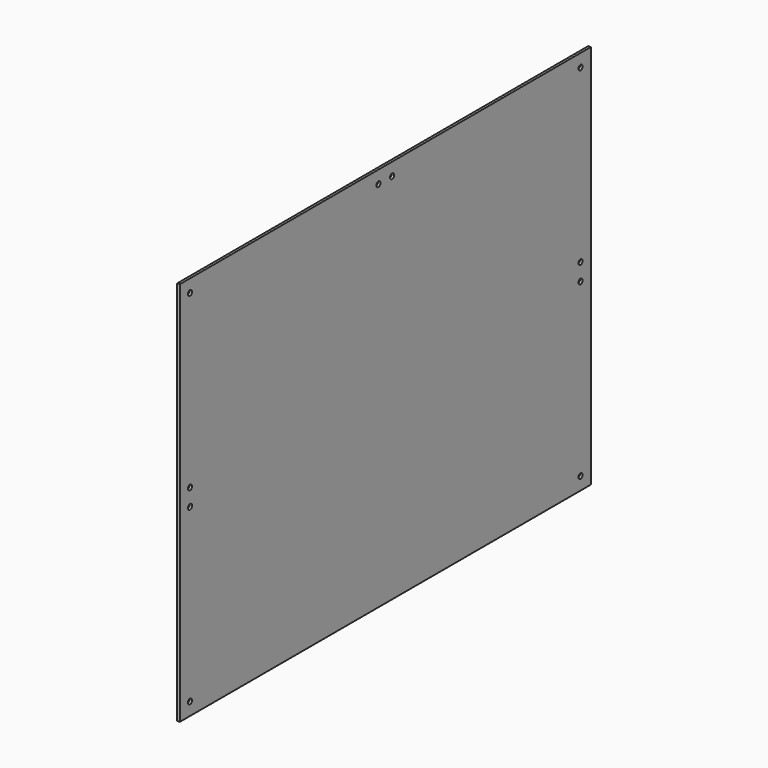
from build123d import *

# Parameters (mm, degrees)
F0_W     = 600
F0_H     = 450
F0_R     = 3
F1_DEPTH = 3


with BuildPart() as f1:
    # F0 (on Right) → F1 (new body)
    with BuildSketch(Plane.YZ):
        with Locations((300, 225)):
            Rectangle(F0_W, F0_H)
        with Locations((15, 15)):
            Circle(F0_R, mode=Mode.SUBTRACT)
        with Locations((15, 215)):
            Circle(F0_R, mode=Mode.SUBTRACT)
        with Locations((585, 15)):
            Circle(F0_R, mode=Mode.SUBTRACT)
        with Locations((585, 215)):
            Circle(F0_R, mode=Mode.SUBTRACT)
        with Locations((15, 235)):
            Circle(F0_R, mode=Mode.SUBTRACT)
        with Locations((15, 435)):
            Circle(F0_R, mode=Mode.SUBTRACT)
        with Locations((290, 435)):
            Circle(F0_R, mode=Mode.SUBTRACT)
        with Locations((585, 235)):
            Circle(F0_R, mode=Mode.SUBTRACT)
        with Locations((310, 435)):
            Circle(F0_R, mode=Mode.SUBTRACT)
        with Locations((585, 435)):
            Circle(F0_R, mode=Mode.SUBTRACT)
    extrude(amount=F1_DEPTH)


solid = f1.part
